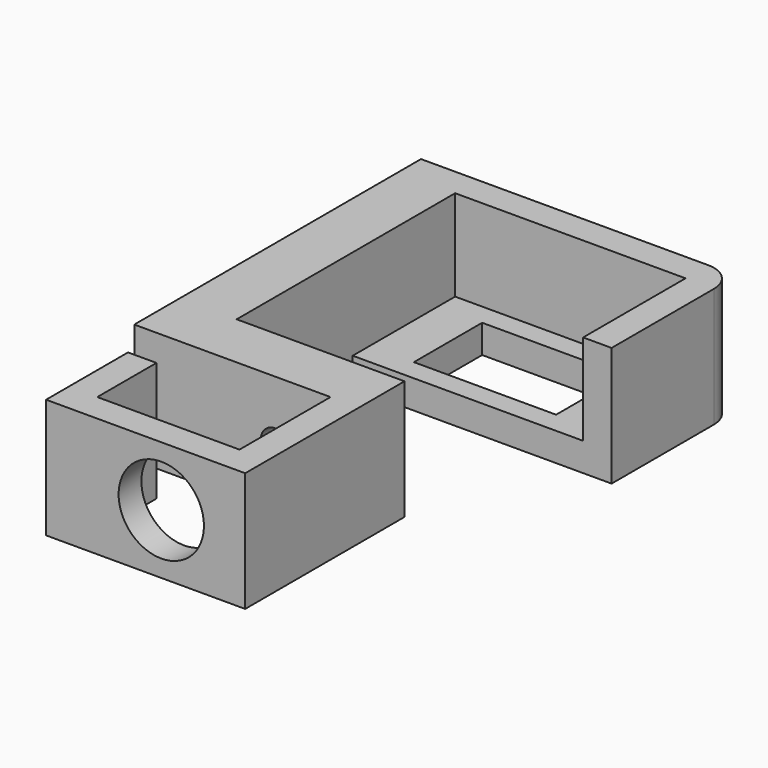
from build123d import *

# Parameters (mm, degrees)
SKETCH_W        = 25
SKETCH_H        = 15
PAD_DEPTH       = 5
PAD001_DEPTH    = 16
SKETCH002_R     = 2.5
SKETCH002_W     = 16
SKETCH002_H     = 21
POCKET_DEPTH    = 15
SKETCH003_W     = 5
SKETCH003_H     = 21
PAD002_DEPTH    = 25
SKETCH004_W     = 5
SKETCH004_H     = 21
PAD003_DEPTH    = 30
SKETCH005_W     = 5
SKETCH005_H     = 21
PAD004_DEPTH    = 13
SKETCH006_R     = 7.5
POCKET001_DEPTH = 10


with BuildPart() as part:
    # Sketch → Pad (new body)
    with BuildSketch(Plane.XY):
        with BuildLine():
            Line((0, -35.5), (0, 27.5))
            Line((0, 27.5), (50.5, 27.5))
            ThreePointArc((55.5, 22.5), (54.035534, 26.035534), (50.5, 27.5))
            Line((55.5, 22.5), (55.5, 0))
            Line((55.5, 0), (10, 0))
            Line((10, 0), (10, -25.5))
            Line((10, -25.5), (55.5, -25.5))
            Line((55.5, -25.5), (55.5, -35.5))
            Line((55.5, -35.5), (0, -35.5))
        make_face()
        with Locations((30.25, 11.25)):
            Rectangle(SKETCH_W, SKETCH_H, mode=Mode.SUBTRACT)
    extrude(amount=PAD_DEPTH)

    # Sketch001 (on Face15 of Pad) → Pad001 (join)
    with BuildSketch(Plane.XY.offset(5)):
        with BuildLine():
            Line((55.5, 22.5), (55.5, 0))
            Line((55.5, 0), (50.5, 0))
            Line((50.5, 0), (50.5, 22.5))
            Line((50.5, 22.5), (10, 22.5))
            Line((10, 22.5), (10, -25.5))
            Line((55.5, -25.5), (10, -25.5))
            Line((55.5, -35.5), (55.5, -25.5))
            Line((0, -35.5), (55.5, -35.5))
            Line((0, 27.5), (0, -35.5))
            Line((50.5, 27.5), (0, 27.5))
            ThreePointArc((55.5, 22.5), (54.035534, 26.035534), (50.5, 27.5))
        make_face()
    extrude(amount=PAD001_DEPTH)

    # Sketch002 (on Face26 of Pad001) → Pocket (cut)
    with BuildSketch(Plane.XZ.offset(35.5)):
        with Locations((24.75, 10.5)):
            Circle(SKETCH002_R)
        with Locations((47.5, 10.5)):
            Rectangle(SKETCH002_W, SKETCH002_H)
    extrude(amount=-POCKET_DEPTH, mode=Mode.SUBTRACT)

    # Sketch003 (on Face25 of Pocket) → Pad002 (join)
    with BuildSketch(Plane.XZ.offset(35.5)):
        with Locations((37, 10.5)):
            Rectangle(SKETCH003_W, SKETCH003_H)
    extrude(amount=PAD002_DEPTH)

    # Sketch004 (on Face27 of Pad002) → Pad003 (join)
    with BuildSketch(Plane(origin=(34.5, 0, 0), x_dir=(0, -1, 0), z_dir=(-1, 0, 0))):
        with Locations((58, 10.5)):
            Rectangle(SKETCH004_W, SKETCH004_H)
    extrude(amount=PAD003_DEPTH)

    # Sketch005 (on Face34 of Pad003) → Pad004 (join)
    with BuildSketch(Plane(origin=(0, -55.5, 0), x_dir=(-1, 0, 0), z_dir=(0, 1, 0))):
        with Locations((-7, 10.5)):
            Rectangle(SKETCH005_W, SKETCH005_H)
    extrude(amount=PAD004_DEPTH)

    # Sketch006 (on Face36 of Pad004) → Pocket001 (cut)
    with BuildSketch(Plane.XZ.offset(60.5)):
        with Locations((24.75, 10.5)):
            Circle(SKETCH006_R)
    extrude(amount=-POCKET001_DEPTH, mode=Mode.SUBTRACT)


solid = part.part
